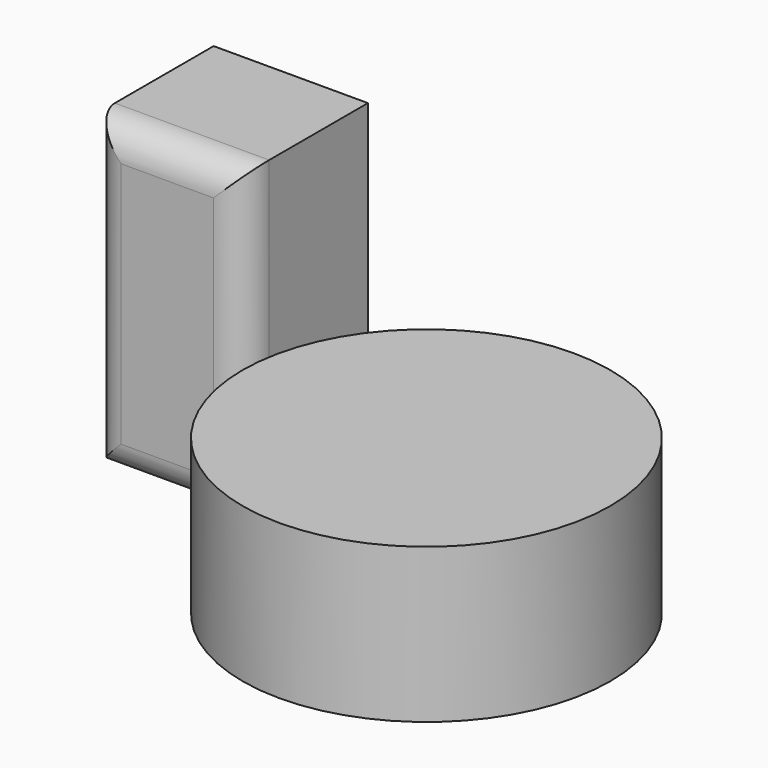
from build123d import *

# Parameters (mm, degrees)
F0_W     = 25.4
F0_H     = 25.4
F1_DEPTH = 50.8
F2_R     = 5.08
F3_R     = 30.282967
F4_DEPTH = 25.4


with BuildPart() as f1:
    # F0 (on Top) → F1 (new body)
    with BuildSketch(Plane.XY):
        with Locations((12.7, 12.7)):
            Rectangle(F0_W, F0_H)
    extrude(amount=F1_DEPTH)

    # F2
    f2_edges = [f1.edges().sort_by_distance(p)[0] for p in [
        (0, 0, 25.4),
        (25.4, 0, 25.4),
        (12.7, 0, 0),
        (12.7, 0, 50.8),
    ]]
    fillet(f2_edges, radius=F2_R)


with BuildPart() as f4:
    # F3 (on Top) → F4 (new body)
    with BuildSketch(Plane.XY):
        with Locations((59.055977, -4.623331)):
            Circle(F3_R)
    extrude(amount=F4_DEPTH)


solid = Compound([f1.part, f4.part])
